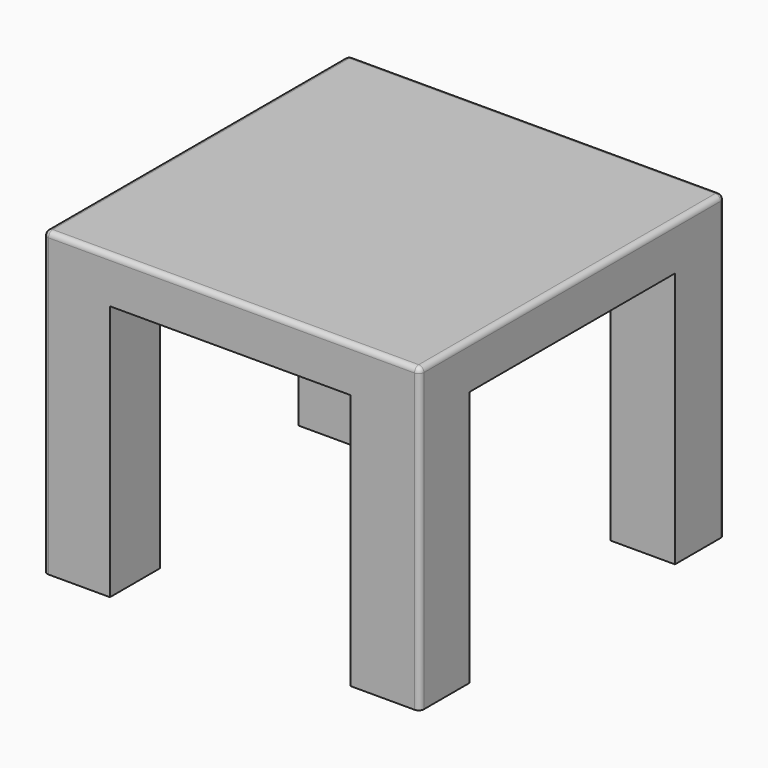
from build123d import *

# Parameters (mm, degrees)
F0_W      = 72.0000043511
F0_H      = 72.9000046849
F1_DEPTH  = 57.7
F2_W      = 47.4000014365
F2_H      = 48.9999987185
F3_DEPTH  = 49
F4_W      = 12.3000014573
F4_H      = 48.9999987185
F5_DEPTH  = 49
F6_W      = 12.3000014573
F6_H      = 49.0666516125
F7_DEPTH  = 49
F8_W      = 47.4963821471
F8_H      = 11.9500029832
F9_DEPTH  = 49
F10_W     = 46.0287183523
F10_H     = 11.9500029832
F11_DEPTH = 49
F12_R     = 1
F13_R     = 1
F14_R     = 1
F15_R     = 1


with BuildPart() as f1:
    # F0 (on Top) → F1 (new body)
    with BuildSketch(Plane.XY):
        Rectangle(F0_W, F0_H)
    extrude(amount=F1_DEPTH)

    # F2 (on face) → F3 (cut)
    with BuildSketch(Plane(origin=(0, 0, 0), x_dir=(1, 0, 0), z_dir=(0, 0, -1))):
        Rectangle(F2_W, F2_H)
    extrude(amount=-F3_DEPTH, mode=Mode.SUBTRACT)

    # F4 (on face) → F5 (cut)
    with BuildSketch(Plane(origin=(0, 0, 0), x_dir=(1, 0, 0), z_dir=(0, 0, -1))):
        with Locations((-29.8500014469, 0)):
            Rectangle(F4_W, F4_H)
    extrude(amount=-F5_DEPTH, mode=Mode.SUBTRACT)

    # F6 (on face) → F7 (cut)
    with BuildSketch(Plane(origin=(0, 0, 0), x_dir=(1, 0, 0), z_dir=(0, 0, -1))):
        with Locations((29.8500014469, -0.033326447)):
            Rectangle(F6_W, F6_H)
    extrude(amount=-F7_DEPTH, mode=Mode.SUBTRACT)

    # F8 (on face) → F9 (cut)
    with BuildSketch(Plane(origin=(0, 0, 0), x_dir=(1, 0, 0), z_dir=(0, 0, -1))):
        with Locations((-0.0481903553, -30.4750008509)):
            Rectangle(F8_W, F8_H)
    extrude(amount=-F9_DEPTH, mode=Mode.SUBTRACT)

    # F10 (on face) → F11 (cut)
    with BuildSketch(Plane(origin=(0, 0, 0), x_dir=(1, 0, 0), z_dir=(0, 0, -1))):
        with Locations((-0.2511702478, 30.4750008509)):
            Rectangle(F10_W, F10_H)
    extrude(amount=-F11_DEPTH, mode=Mode.SUBTRACT)

    # F12
    f12_edges = [f1.edges().sort_by_distance(p)[0] for p in [
        (0, -36.450002, 57.7),
    ]]
    fillet(f12_edges, radius=F12_R)

    # F13
    f13_edges = [f1.edges().sort_by_distance(p)[0] for p in [
        (-36.000002, 0.5, 57.7),
    ]]
    fillet(f13_edges, radius=F13_R)

    # F14
    f14_edges = [f1.edges().sort_by_distance(p)[0] for p in [
        (0.5, 36.450002, 57.7),
    ]]
    fillet(f14_edges, radius=F14_R)

    # F15
    f15_edges = [f1.edges().sort_by_distance(p)[0] for p in [
        (36.000002, 0, 57.7),
    ]]
    fillet(f15_edges, radius=F15_R)


solid = f1.part
